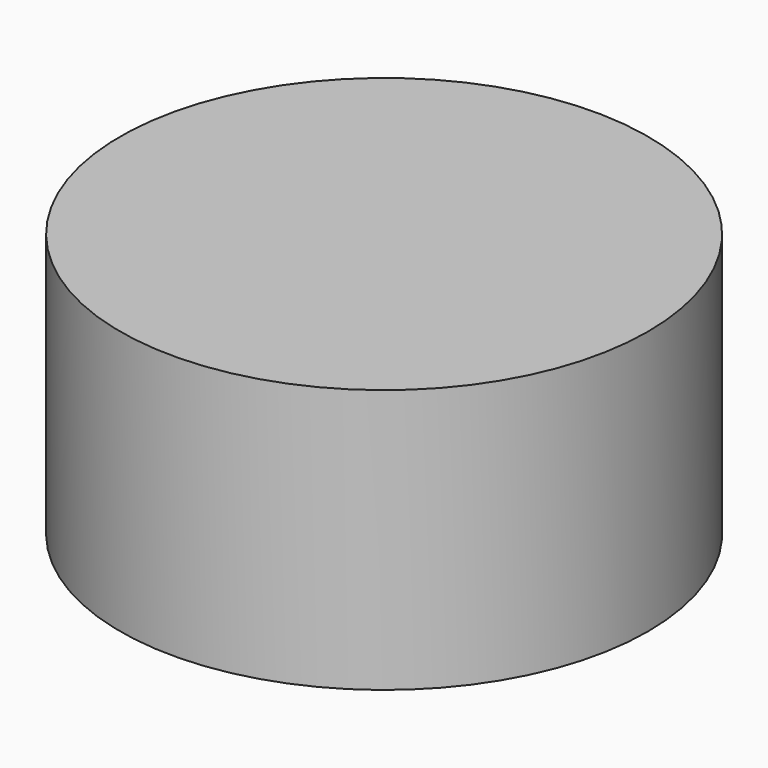
from build123d import *

# Parameters (mm, degrees)
CYLINDER_R     = 4
CYLINDER_DEPTH = 4


with BuildPart() as part:
    # Cylinder → Cylinder (new body)
    with BuildSketch(Plane.XY):
        Circle(CYLINDER_R)
    extrude(amount=CYLINDER_DEPTH)


solid = part.part
